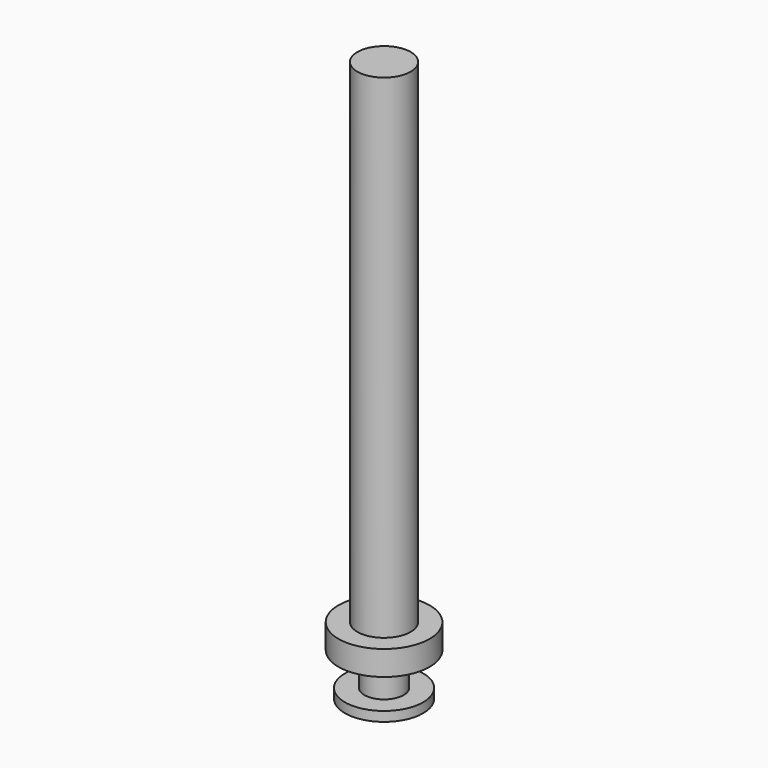
from build123d import *

# Parameters (mm, degrees)
F0_R     = 5.475
F1_DEPTH = 1.35
F2_R     = 2.75
F3_DEPTH = 6
F4_R     = 6.375
F5_DEPTH = 3.45
F6_R     = 3.73
F7_DEPTH = 69


with BuildPart() as f1:
    # F0 (on Top) → F1 (new body)
    with BuildSketch(Plane.XY):
        Circle(F0_R)
    extrude(amount=F1_DEPTH)

    # F2 (on Top) → F3 (join)
    with BuildSketch(Plane.XY):
        Circle(F2_R)
    extrude(amount=F3_DEPTH)

    # F4 (on face) → F5 (join)
    with BuildSketch(Plane.XY.offset(6)):
        Circle(F4_R)
    extrude(amount=F5_DEPTH)

    # F6 (on face) → F7 (join)
    with BuildSketch(Plane.XY.offset(9.45)):
        Circle(F6_R)
    extrude(amount=F7_DEPTH)


solid = f1.part
